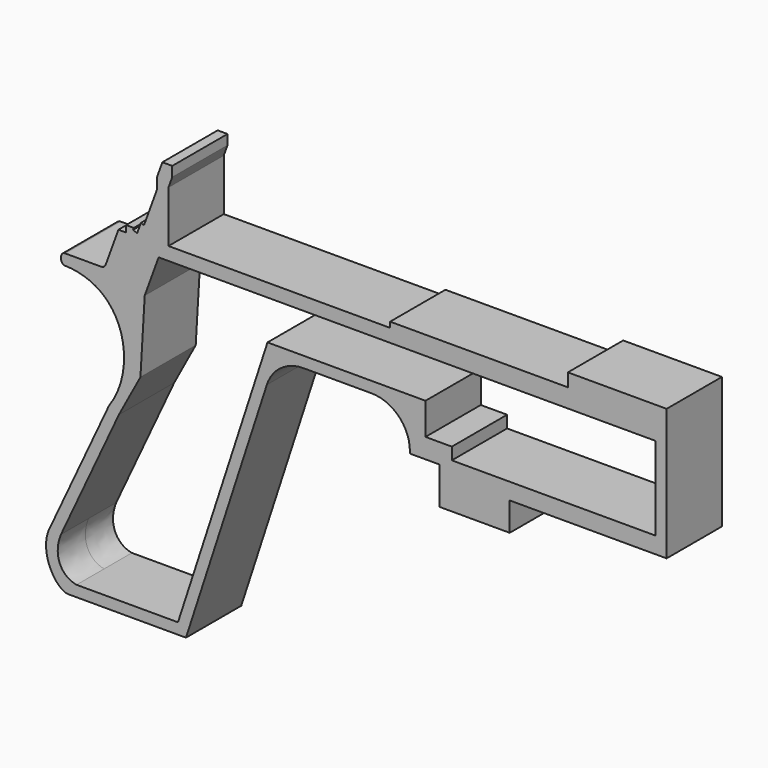
from build123d import *

# Parameters (mm, degrees)
EXTRUDE_DEPTH = 12.6


with BuildPart() as part:
    # Sketch → Extrude (new body, symmetric)
    with BuildSketch(Plane.XZ):
        with BuildLine():
            Line((-219.278359, 26.583984), (-206.078359, 26.583984))
            ThreePointArc((-206.078359, 26.583984), (-205.131957, 26.882383), (-204.527866, 27.669651))
            Line((-204.527866, 27.669651), (-199.861118, 40.491435))
            Line((-199.861118, 40.491435), (-197.061118, 40.491435))
            Line((-197.061118, 40.491435), (-197.061118, 42.891435))
            Line((-197.061118, 42.891435), (-194.261118, 42.891435))
            Line((-194.261118, 42.891435), (-194.534734, 42.139681))
            Line((-194.534734, 42.139681), (-193.031226, 41.592449))
            Line((-193.031226, 41.592449), (-191.663145, 45.351219))
            Line((-191.663145, 45.351219), (-190.535514, 44.940795))
            Line((-190.535514, 44.940795), (-185.747232, 58.096492))
            Line((-185.747232, 58.096492), (-185.747232, 62.096492))
            Line((-185.747232, 62.096492), (-183.831919, 67.35877))
            Line((-183.831919, 67.35877), (-180.231919, 67.35877))
            Line((-180.231919, 67.35877), (-180.231919, 63.75877))
            Line((-180.231919, 63.75877), (-181.6, 60))
            Line((-181.6, 60), (-181.6, 41.2))
            Line((-181.6, 41.2), (-100.8, 41.2))
            Line((-100.8, 41.2), (-100.8, 43.2))
            Line((-100.8, 43.2), (-36, 43.2))
            Line((-36, 43.2), (-36, 48))
            Line((-36, 48), (0, 48))
            Line((0, 48), (0, 0))
            Line((0, 0), (-57.2, 0))
            Line((-57.2, 0), (-57.2, -10.4))
            Line((-57.2, -10.4), (-82.8, -10.4))
            Line((-82.8, -10.4), (-82.8, 3.2))
            Line((-82.8, 3.2), (-93.6, 3.2))
            Line((-93.6, 3.2), (-93.6, 4))
            ThreePointArc((-93.6, 4), (-97.700505, 13.899495), (-107.6, 18))
            Line((-107.6, 18), (-132.428405, 18))
            ThreePointArc((-132.428405, 18), (-140.657398, 15.326238), (-145.743196, 8.326238))
            Line((-145.743196, 8.326238), (-175.232195, -82.431568))
            Line((-175.232195, -82.431568), (-218.032195, -82.431568))
            add(Edge.make_bspline(
                [(-218.032195, -82.431568), (-222.60054, -82.508301), (-229.560425, -71.441643), (-224.432195, -62.431568)],
                knots=[0, 0, 0, 0, 16.552678, 16.552678, 16.552678, 16.552678], degree=3))
            Line((-224.432195, -62.431568), (-203.301282, -17.116179))
            add(Edge.make_bspline(
                [(-203.301282, -17.116179), (-192.874893, -2.614162), (-196.88326, 21.204461), (-218.335348, 22.583984)],
                knots=[0, 0, 0, 0, 54.516173, 54.516173, 54.516173, 54.516173], degree=3))
            Line((-218.335348, 22.583984), (-219.135348, 22.583984))
            ThreePointArc((-219.135348, 22.583984), (-220.266718, 23.052613), (-220.735348, 24.183984))
            Line((-220.735348, 24.183984), (-220.735348, 25.126995))
            ThreePointArc((-220.735348, 25.126995), (-220.308605, 26.157242), (-219.278359, 26.583984))
        make_face()
        with BuildLine():
            Line((-215.122195, -78.431568), (-178.142195, -78.431568))
            Line((-178.142195, -78.431568), (-145.51, 22))
            Line((-145.51, 22), (-87.91, 22))
            Line((-87.91, 22), (-87.91, 10.4))
            Line((-87.91, 10.4), (-78.31, 10.4))
            Line((-78.31, 10.4), (-78.31, 6))
            Line((-78.31, 6), (-4, 6))
            Line((-4, 6), (-4, 36.4))
            Line((-4, 36.4), (-185.2, 36.4))
            Line((-185.2, 36.4), (-190.261898, 22.492549))
            Line((-190.261898, 22.492549), (-191.833618, -4.206153))
            Line((-191.833618, -4.206153), (-199.67605, -18.806652))
            Line((-199.67605, -18.806652), (-220.806963, -64.122041))
            add(Edge.make_bspline(
                [(-215.122195, -78.431568), (-220.482315, -77.450493), (-223.897415, -71.787476), (-220.806963, -64.122041)],
                knots=[0, 0, 0, 0, 15.793542, 15.793542, 15.793542, 15.793542], degree=3))
        make_face(mode=Mode.SUBTRACT)
    extrude(amount=EXTRUDE_DEPTH, both=True)


solid = part.part
